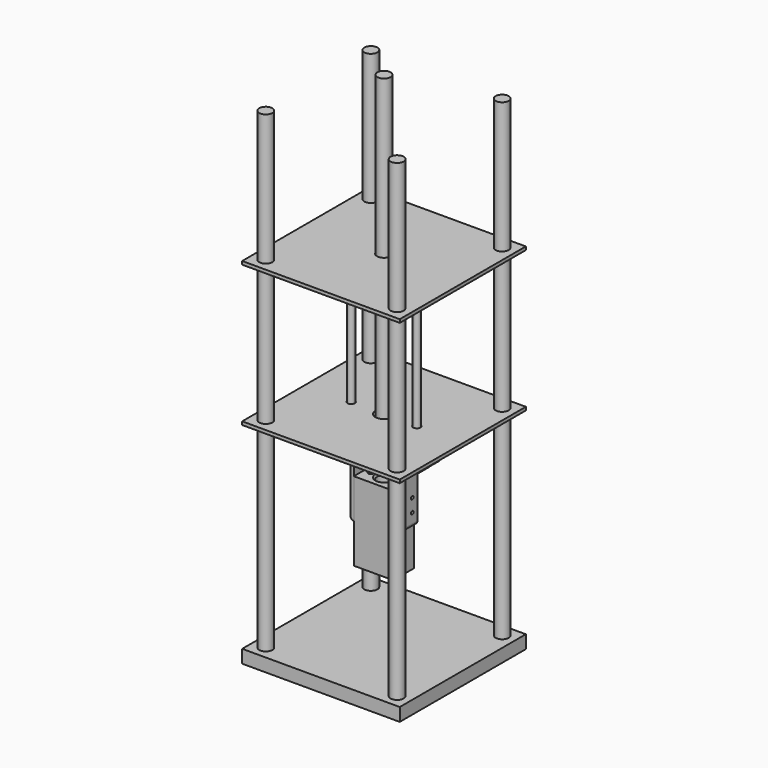
from build123d import *

# Parameters (mm, degrees)
F0_W           = 304.8
F0_H           = 304.8
F1_DEPTH       = 25.4
F2_R           = 12.7
F3_DEPTH       = 914.4
F5_R           = 12.7
F5_R_2         = 7.14375
F6_DEPTH       = 6.35
F8_W           = 76.2
F8_H           = 50.8
F8_R           = 13.49375
F9_DEPTH       = 152.4
F10_R          = 5.1308
F11_DEPTH      = 133.35
F12_R          = 3.175
F13_DEPTH      = 12.7
F14_R          = 3.175
F15_DEPTH      = 12.7
F17_DEPTH      = 50.8
F18_R          = 3.175
F19_DEPTH      = 6.35
F20_R          = 3.175
F21_DEPTH      = 6.35
F22_R          = 6.35
F23_DEPTH      = 6.35
F24_R          = 6.35
F25_DEPTH      = 304.8
F25_DEPTH_BACK = 12.7
F27_W          = 177.8
F27_H          = 50.8
F27_R          = 7.14375
F27_R_2        = 13.49375
F28_DEPTH      = 6.35
F29_SIZE       = 3.175
F30_SIZE       = 3.175
F32_R          = 12.7
F33_DEPTH      = 6.35
F34_W          = 28.575
F34_H          = 28.575
F34_R          = 7.14375
F35_DEPTH      = 6.35
F36_W          = 28.575
F36_H          = 28.575
F36_R          = 7.14375
F37_DEPTH      = 6.35
F39_R          = 12.7
F40_DEPTH      = 609.6


with BuildPart() as f1:
    # F0 (on Top) → F1 (new body)
    with BuildSketch(Plane.XY):
        Rectangle(F0_W, F0_H)
    extrude(amount=-F1_DEPTH)

    # F2 (on face) → F3 (join)
    with BuildSketch(Plane.XY):
        with Locations((-127, 127)):
            Circle(F2_R)
        with Locations((127, 127)):
            Circle(F2_R)
        with Locations((-127, -127)):
            Circle(F2_R)
        with Locations((127, -127)):
            Circle(F2_R)
    extrude(amount=F3_DEPTH)

    # F5 (on offset) → F6 (join)
    with BuildSketch(Plane.XY.offset(381)):
        Polygon((-152.4, 152.4), (-152.4, 0), (-152.4, -152.4), (152.4, -152.4), (152.4, 152.4), align=None)
        with Locations((-127, -127)):
            Circle(F5_R, mode=Mode.SUBTRACT)
        with Locations((127, -127)):
            Circle(F5_R, mode=Mode.SUBTRACT)
        with BuildLine():
            ThreePointArc((-70.64375, 0), (-63.5, 7.14375), (-56.35625, 0))
            ThreePointArc((-56.35625, 0), (-63.5, -7.14375), (-70.64375, 0))
        make_face(mode=Mode.SUBTRACT)
        with Locations((-127, 127)):
            Circle(F5_R, mode=Mode.SUBTRACT)
        with BuildLine():
            ThreePointArc((-13.49375, 0), (-9.541522, 9.541522), (0, 13.49375))
            ThreePointArc((0, 13.49375), (9.541522, 9.541522), (13.49375, 0))
            ThreePointArc((13.49375, 0), (0, -13.49375), (-13.49375, 0))
        make_face(mode=Mode.SUBTRACT)
        with Locations((63.5, 0)):
            Circle(F5_R_2, mode=Mode.SUBTRACT)
        with Locations((127, 127)):
            Circle(F5_R, mode=Mode.SUBTRACT)
    extrude(amount=F6_DEPTH)

    # F30
    f30_edges = [f1.edges().sort_by_distance(p)[0] for p in [
        (0, -13.49375, 387.35),
    ]]
    chamfer(f30_edges, length=F30_SIZE)

    # F32 (on offset) → F33 (join)
    with BuildSketch(Plane.XY.offset(654.05)):
        Polygon((-152.4, 152.4), (-152.4, 0), (-152.4, -152.4), (152.4, -152.4), (152.4, 152.4), align=None)
        with Locations((-127, -127)):
            Circle(F32_R, mode=Mode.SUBTRACT)
        with Locations((127, -127)):
            Circle(F32_R, mode=Mode.SUBTRACT)
        with Locations((-127, 127)):
            Circle(F32_R, mode=Mode.SUBTRACT)
        with BuildLine():
            ThreePointArc((-13.49375, 0), (-9.541522, 9.541522), (0, 13.49375))
            ThreePointArc((0, 13.49375), (9.541522, 9.541522), (13.49375, 0))
            ThreePointArc((13.49375, 0), (0, -13.49375), (-13.49375, 0))
        make_face(mode=Mode.SUBTRACT)
        with Locations((127, 127)):
            Circle(F32_R, mode=Mode.SUBTRACT)
    extrude(amount=F33_DEPTH)


with BuildPart() as f9:
    # F8 (on offset) → F9 (new body)
    with BuildSketch(Plane.XY.offset(279.4)):
        Rectangle(F8_W, F8_H)
        Circle(F8_R, mode=Mode.SUBTRACT)
    extrude(amount=-F9_DEPTH)

    # F10 (on face) → F11 (cut)
    with BuildSketch(Plane.XY.offset(279.4)):
        with Locations((-25.4, 0)):
            Circle(F10_R)
        with Locations((25.4, 0)):
            Circle(F10_R)
    extrude(amount=-F11_DEPTH, mode=Mode.SUBTRACT)

    # F12 (on face) → F13 (cut)
    with BuildSketch(Plane(origin=(-38.1, 0, 0), x_dir=(0, -1, 0), z_dir=(-1, 0, 0))):
        with Locations((-12.7, 254)):
            Circle(F12_R)
        with Locations((-12.7, 228.6)):
            Circle(F12_R)
        with Locations((12.7, 228.6)):
            Circle(F12_R)
        with Locations((12.7, 254)):
            Circle(F12_R)
    extrude(amount=-F13_DEPTH, mode=Mode.SUBTRACT)

    # F14 (on face) → F15 (cut)
    with BuildSketch(Plane.YZ.offset(38.1)):
        with Locations((-12.7, 254)):
            Circle(F14_R)
        with Locations((-12.7, 228.6)):
            Circle(F14_R)
        with Locations((12.7, 228.6)):
            Circle(F14_R)
        with Locations((12.7, 254)):
            Circle(F14_R)
    extrude(amount=-F15_DEPTH, mode=Mode.SUBTRACT)

    # F29
    f29_edges = [f9.edges().sort_by_distance(p)[0] for p in [
        (-13.49375, 0, 279.4),
    ]]
    chamfer(f29_edges, length=F29_SIZE)


with BuildPart() as f17:
    # F16 (on face) → F17 (new body)
    with BuildSketch(Plane.XZ.offset(25.4)):
        with BuildLine():
            Line((88.9, 330.2), (38.1, 330.2))
            Line((38.1, 330.2), (38.1, 203.2))
            ThreePointArc((38.1, 203.2), (42.590128, 205.059872), (44.45, 209.55))
            Line((44.45, 209.55), (44.45, 323.85))
            Line((44.45, 323.85), (82.55, 323.85))
            ThreePointArc((82.55, 323.85), (87.040128, 325.709872), (88.9, 330.2))
        make_face()
        with BuildLine():
            Line((-38.1, 203.2), (-38.1, 330.2))
            Line((-38.1, 330.2), (-88.9, 330.2))
            ThreePointArc((-88.9, 330.2), (-87.040128, 325.709872), (-82.55, 323.85))
            Line((-82.55, 323.85), (-44.45, 323.85))
            Line((-44.45, 323.85), (-44.45, 209.55))
            ThreePointArc((-44.45, 209.55), (-42.590128, 205.059872), (-38.1, 203.2))
        make_face()
    extrude(amount=-F17_DEPTH)

    # F18 (on face) → F19 (cut)
    with BuildSketch(Plane.YZ.offset(44.45)):
        with Locations((-12.7, 254)):
            Circle(F18_R)
        with Locations((-12.7, 228.6)):
            Circle(F18_R)
        with Locations((12.7, 228.6)):
            Circle(F18_R)
        with Locations((12.7, 254)):
            Circle(F18_R)
    extrude(amount=-F19_DEPTH, mode=Mode.SUBTRACT)

    # F20 (on face) → F21 (cut)
    with BuildSketch(Plane(origin=(-44.45, 0, 0), x_dir=(0, -1, 0), z_dir=(-1, 0, 0))):
        with Locations((-12.7, 254)):
            Circle(F20_R)
        with Locations((-12.7, 228.6)):
            Circle(F20_R)
        with Locations((12.7, 228.6)):
            Circle(F20_R)
        with Locations((12.7, 254)):
            Circle(F20_R)
    extrude(amount=-F21_DEPTH, mode=Mode.SUBTRACT)

    # F22 (on face) → F23 (cut)
    with BuildSketch(Plane.XY.offset(330.2)):
        with Locations((63.5, 0)):
            Circle(F22_R)
        with Locations((-63.5, 0)):
            Circle(F22_R)
    extrude(amount=-F23_DEPTH, mode=Mode.SUBTRACT)


with BuildPart() as f25:
    # F24 (on face) → F25 (new body, two sides)
    with BuildSketch(Plane.XY.offset(330.2)) as f25_sk:
        with Locations((63.5, 0)):
            Circle(F24_R)
        with Locations((-63.5, 0)):
            Circle(F24_R)
    extrude(amount=F25_DEPTH)
    extrude(f25_sk.sketch, amount=-F25_DEPTH_BACK)


with BuildPart() as f28:
    # F27 (on offset) → F28 (new body)
    with BuildSketch(Plane.XY.offset(622.3)):
        Rectangle(F27_W, F27_H)
        with Locations((-63.5, 0)):
            Circle(F27_R, mode=Mode.SUBTRACT)
        Circle(F27_R_2, mode=Mode.SUBTRACT)
        with Locations((63.5, 0)):
            Circle(F27_R, mode=Mode.SUBTRACT)
    extrude(amount=F28_DEPTH)


with BuildPart() as f35:
    # F34 (on face) → F35 (new body)
    with BuildSketch(Plane(origin=(0, 0, 317.5), x_dir=(1, 0, 0), z_dir=(0, 0, -1))):
        with Locations((63.5, 0)):
            Rectangle(F34_W, F34_H)
        with Locations((63.5, 0)):
            Circle(F34_R, mode=Mode.SUBTRACT)
    extrude(amount=-F35_DEPTH)


with BuildPart() as f37:
    # F36 (on face) → F37 (new body)
    with BuildSketch(Plane(origin=(0, 0, 317.5), x_dir=(1, 0, 0), z_dir=(0, 0, -1))):
        with Locations((-63.5, 0)):
            Rectangle(F36_W, F36_H)
        with Locations((-63.5, 0)):
            Circle(F36_R, mode=Mode.SUBTRACT)
    extrude(amount=-F37_DEPTH)


with BuildPart() as f40:
    # F39 (on offset) → F40 (new body)
    with BuildSketch(Plane.XY.offset(355.6)):
        Circle(F39_R)
    extrude(amount=F40_DEPTH)


solid = Compound([f1.part, f9.part, f17.part, f25.part, f28.part, f35.part, f37.part, f40.part])
